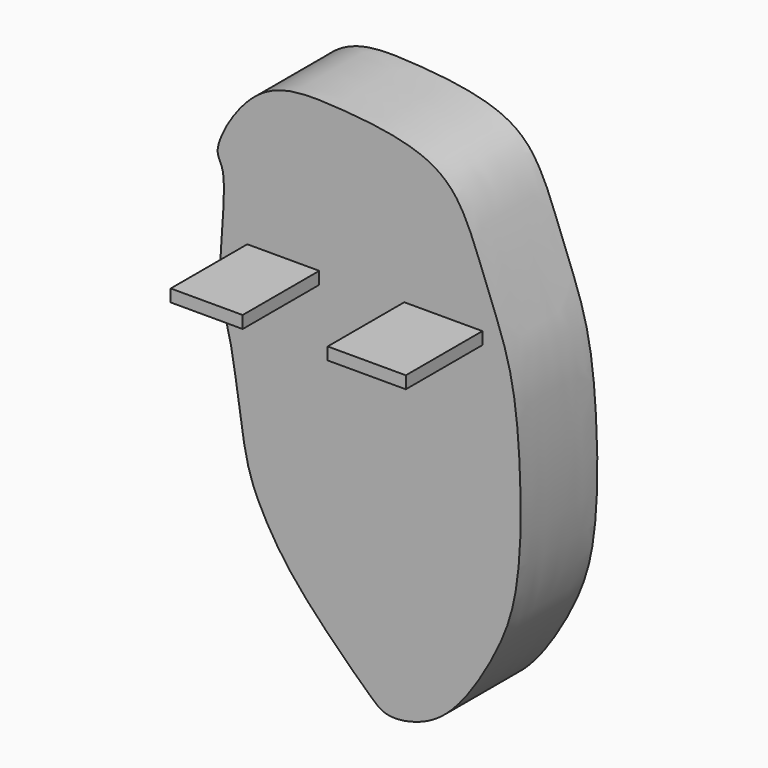
from build123d import *

# Parameters (mm, degrees)
F1_DEPTH = 25.4
F2_W     = 19.0945584327
F2_H     = 3.2732058316
F3_DEPTH = 25.4
F4_W     = 20.736461971
F4_H     = 3.2732058316
F5_DEPTH = 25.4


with BuildPart() as f1:
    # F0 (on Front) → F1 (new body)
    with BuildSketch(Plane.XZ):
        with BuildLine():
            add(Edge.make_bspline(
                [(-43.8256375492, 49.0054376423), (-42.7916469696, 44.173791818), (-46.1003508943, 22.2523463295), (-41.2365449541, 11.4018173918), (-38.4468794286, -15.0284204945), (-34.4404053019, -25.5549359592), (-25.5874273702, -41.0013375146), (-5.6752740256, -60.0394326793), (-0.5317638242, -64.582035161), (8.6317494058, -63.3059960665), (18.6127022363, -57.25258167), (29.7997063716, -38.8399710786), (34.0225700596, -26.046605234), (35.4974956894, -10.2236704325), (35.0854384121, 8.1301256606), (33.0903105303, 28.5585849949), (25.5295594833, 46.1545442627), (19.0780176286, 65.1810135254), (5.5546828919, 72.125873235), (-14.7286294195, 74.0832481465), (-35.1407015096, 74.4060534532), (-47.3435715893, 53.0785176575), (-44.2774492649, 51.1166698266), (-43.8256375492, 49.0054376423)],
                knots=[0, 0, 0, 0, 0.0591053589, 0.103607101, 0.1627736267, 0.2027891978, 0.2529713341, 0.3149714192, 0.3448318115, 0.3780579088, 0.4184724188, 0.4727746648, 0.5166830419, 0.5629463952, 0.6139785068, 0.6672696985, 0.7196625185, 0.7712592657, 0.8153987723, 0.8687123638, 0.921567583, 0.9741733685, 1, 1, 1, 1], degree=3))
        make_face()
    extrude(amount=F1_DEPTH)

    # F2 (on face) → F3 (join)
    with BuildSketch(Plane.XZ.offset(25.4)):
        with Locations((-27.7713080868, 32.4034495279)):
            Rectangle(F2_W, F2_H)
    extrude(amount=F3_DEPTH)

    # F4 (on face) → F5 (join)
    with BuildSketch(Plane.XZ.offset(25.4)):
        with Locations((14.7052172106, 32.4034495279)):
            Rectangle(F4_W, F4_H)
    extrude(amount=F5_DEPTH)


solid = f1.part
